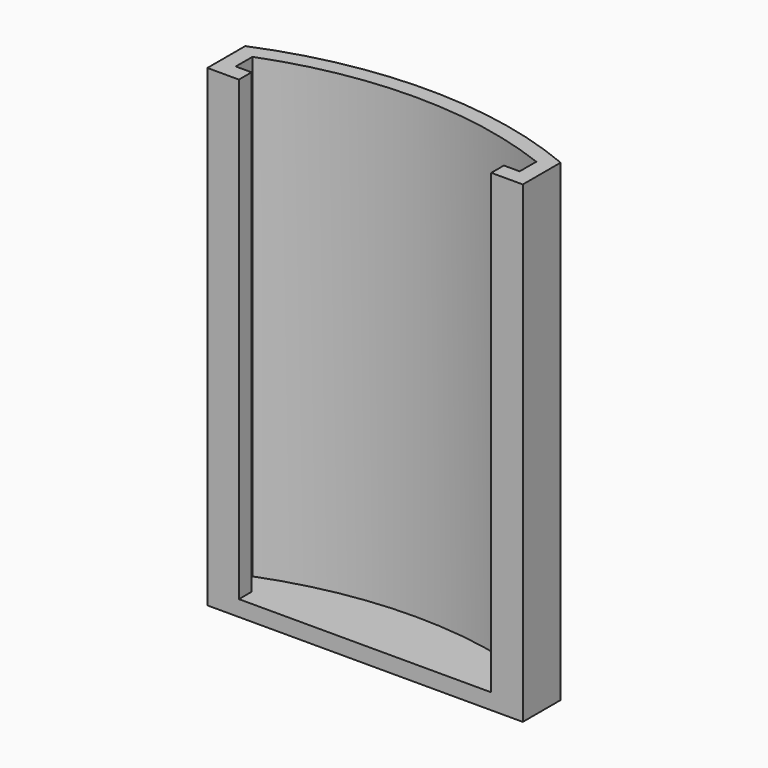
from build123d import *

# Parameters (mm, degrees)
F1_DEPTH = 30
F3_DEPTH = 1


with BuildPart() as f1:
    # F0 (on Top) → F1 (new body)
    with BuildSketch(Plane.XY):
        with BuildLine():
            Line((-10, 3), (-10, 0))
            Line((-10, 0), (-8, 0))
            Line((-8, 0), (-8, 1))
            Line((-8, 1), (-9, 1))
            Line((-9, 1), (-9, 2.323808))
            ThreePointArc((-9, 2.323808), (0, 4), (9, 2.323808))
            Line((9, 2.323808), (9, 1))
            Line((9, 1), (8, 1))
            Line((8, 1), (8, 0))
            Line((8, 0), (10, 0))
            Line((10, 0), (10, 3))
            ThreePointArc((10, 3), (0, 5), (-10, 3))
        make_face()
    extrude(amount=F1_DEPTH)

    # F2 (on face) → F3 (join)
    with BuildSketch(Plane(origin=(0, 0, 0), x_dir=(1, 0, 0), z_dir=(0, 0, -1))):
        with BuildLine():
            Line((10, 0), (-10, 0))
            Line((-10, 0), (-10, -3))
            ThreePointArc((-10, -3), (0, -5), (10, -3))
            Line((10, -3), (10, 0))
        make_face()
    extrude(amount=-F3_DEPTH)


solid = f1.part
